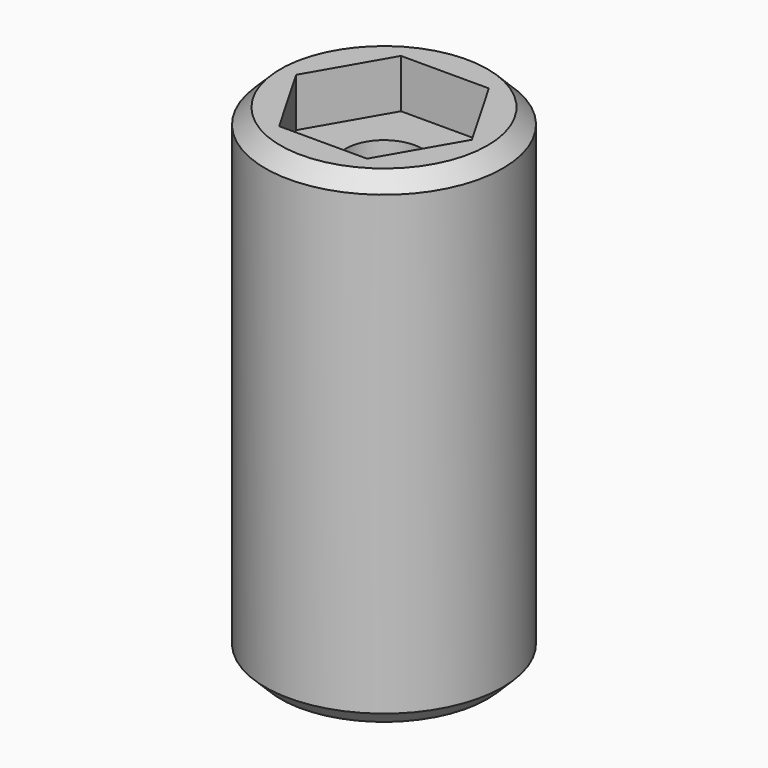
from build123d import *

# Parameters (mm, degrees)
F0_R     = 3.9
F1_DEPTH = 16
F2_R     = 2.4
F3_DEPTH = 12
F4_R     = 1.25
F5_DEPTH = 4.001
F6_SIZE  = 0.5
F7_SIZE  = 0.5
F9_DEPTH = 1.6


with BuildPart() as f1:
    # F0 (on Top) → F1 (new body)
    with BuildSketch(Plane.XY):
        Circle(F0_R)
    extrude(amount=F1_DEPTH)

    # F2 (on face) → F3 (cut)
    with BuildSketch(Plane(origin=(0, 0, 0), x_dir=(1, 0, 0), z_dir=(0, 0, -1))):
        Circle(F2_R)
    extrude(amount=-F3_DEPTH, mode=Mode.SUBTRACT)

    # F4 (on face) → F5 (cut, through all)
    with BuildSketch(Plane(origin=(0, 0, 12), x_dir=(1, 0, 0), z_dir=(0, 0, -1))):
        Circle(F4_R)
    extrude(amount=-F5_DEPTH, mode=Mode.SUBTRACT)

    # F6
    f6_edges = [f1.edges().sort_by_distance(p)[0] for p in [
        (-3.9, 0, 16),
    ]]
    chamfer(f6_edges, length=F6_SIZE)

    # F7
    f7_edges = [f1.edges().sort_by_distance(p)[0] for p in [
        (-3.9, 0, 0),
    ]]
    chamfer(f7_edges, length=F7_SIZE)

    # F8 (on face) → F9 (cut)
    with BuildSketch(Plane.XY.offset(16)):
        Polygon((-2.886751, 0), (-1.443376, -2.5), (1.443376, -2.5), (2.886751, 0), (1.443376, 2.5), (-1.443376, 2.5), align=None)
    extrude(amount=-F9_DEPTH, mode=Mode.SUBTRACT)


solid = f1.part
